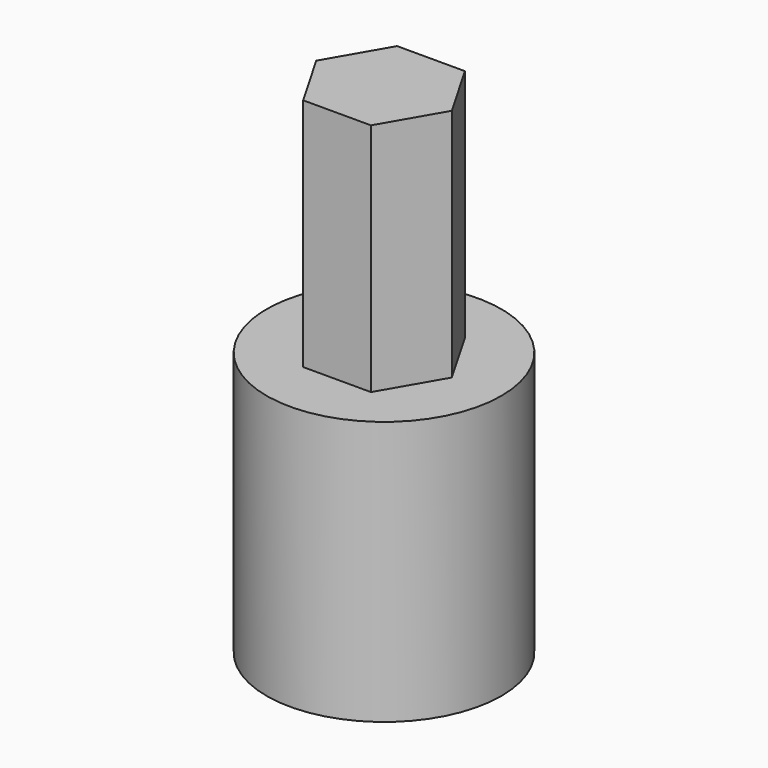
from build123d import *

# Parameters (mm, degrees)
F0_R     = 12.7
F1_DEPTH = 25.4
F2_R     = 12.7
F3_DEPTH = 3.175
F5_DEPTH = 25.4


with BuildPart() as f1:
    # F0 (on Top) → F1 (new body)
    with BuildSketch(Plane.XY):
        Circle(F0_R)
        with BuildLine():
            ThreePointArc((8.614346, 1.798068), (8.753463, 0.903814), (8.8, 0))
            ThreePointArc((8.8, 0), (8.753463, -0.903814), (8.614346, -1.798068))
            Line((8.614346, -1.798068), (10.468267, -2.86843))
            Line((10.468267, -2.86843), (7.718267, -7.63157))
            Line((7.718267, -7.63157), (5.864346, -6.561208))
            ThreePointArc((5.864346, -6.561208), (4.4, -7.621024), (2.75, -8.359276))
            Line((2.75, -8.359276), (2.75, -10.5))
            Line((2.75, -10.5), (-2.75, -10.5))
            Line((-2.75, -10.5), (-2.75, -8.359276))
            ThreePointArc((-2.75, -8.359276), (-4.4, -7.621024), (-5.864346, -6.561208))
            Line((-5.864346, -6.561208), (-7.718267, -7.63157))
            Line((-7.718267, -7.63157), (-10.468267, -2.86843))
            Line((-10.468267, -2.86843), (-8.614346, -1.798068))
            ThreePointArc((-8.614346, -1.798068), (-8.8, 0), (-8.614346, 1.798068))
            Line((-8.614346, 1.798068), (-10.468267, 2.86843))
            Line((-10.468267, 2.86843), (-7.718267, 7.63157))
            Line((-7.718267, 7.63157), (-5.864346, 6.561208))
            ThreePointArc((-5.864346, 6.561208), (-4.4, 7.621024), (-2.75, 8.359276))
            Line((-2.75, 8.359276), (-2.75, 10.5))
            Line((-2.75, 10.5), (2.75, 10.5))
            Line((2.75, 10.5), (2.75, 8.359276))
            ThreePointArc((2.75, 8.359276), (4.4, 7.621024), (5.864346, 6.561208))
            Line((5.864346, 6.561208), (7.718267, 7.63157))
            Line((7.718267, 7.63157), (10.468267, 2.86843))
            Line((10.468267, 2.86843), (8.614346, 1.798068))
        make_face(mode=Mode.SUBTRACT)
    extrude(amount=F1_DEPTH)

    # F2 (on face) → F3 (join)
    with BuildSketch(Plane.XY.offset(25.4)):
        Circle(F2_R)
    extrude(amount=F3_DEPTH)

    # F4 (on face) → F5 (join)
    with BuildSketch(Plane.XY.offset(28.575)):
        Polygon((3.666174, 6.35), (-3.666174, 6.35), (-7.332348, 0), (-3.666174, -6.35), (3.666174, -6.35), (7.332348, 0), align=None)
    extrude(amount=F5_DEPTH)


solid = f1.part
